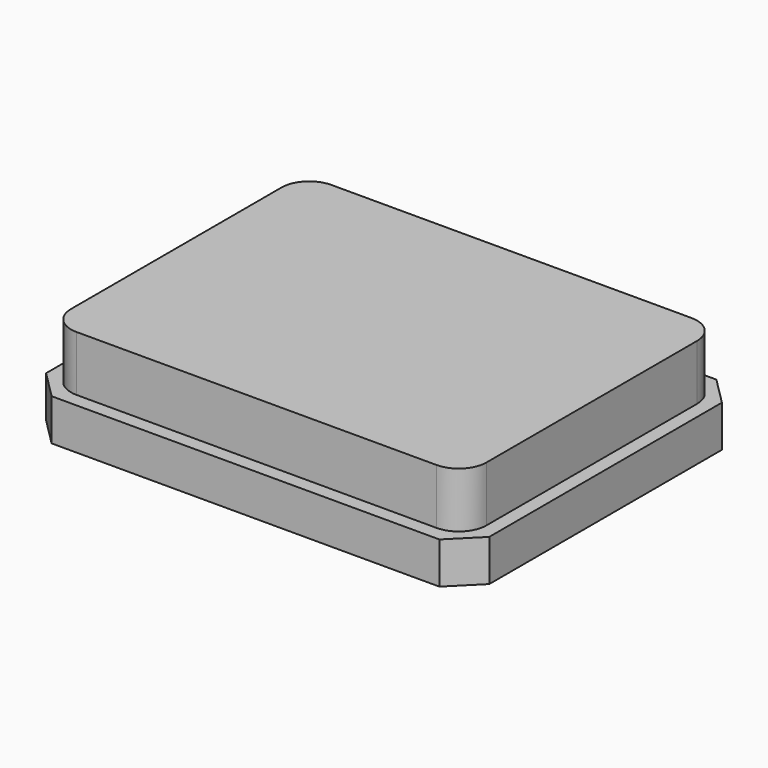
from build123d import *

# Parameters (mm, degrees)
F0_W     = 3.2
F0_H     = 2.5
F1_DEPTH = 0.3
F2_W     = 3
F2_H     = 2.3
F3_DEPTH = 0.4
F4_R     = 0.2
F5_SIZE  = 0.2


with BuildPart() as f1:
    # F0 (on Top) → F1 (new body)
    with BuildSketch(Plane.XY):
        Rectangle(F0_W, F0_H)
    extrude(amount=F1_DEPTH)

    # F2 (on face) → F3 (join)
    with BuildSketch(Plane.XY.offset(0.3)):
        Rectangle(F2_W, F2_H)
    extrude(amount=F3_DEPTH)

    # F4
    f4_edges = [f1.edges().sort_by_distance(p)[0] for p in [
        (1.5, 1.15, 0.5),
        (1.5, -1.15, 0.5),
        (-1.5, -1.15, 0.5),
        (-1.5, 1.15, 0.5),
    ]]
    fillet(f4_edges, radius=F4_R)

    # F5
    f5_edges = [f1.edges().sort_by_distance(p)[0] for p in [
        (-1.6, -1.25, 0.15),
        (-1.6, 1.25, 0.15),
        (1.6, -1.25, 0.15),
        (1.6, 1.25, 0.15),
    ]]
    chamfer(f5_edges, length=F5_SIZE)


solid = f1.part
